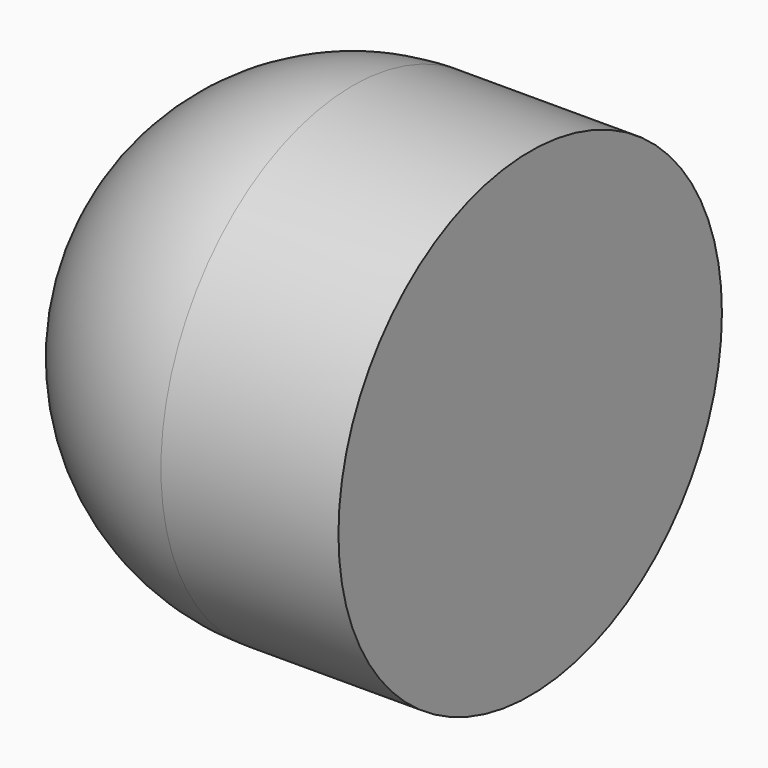
from build123d import *

# Parameters (mm, degrees)
F0_R     = 13.5
F1_DEPTH = 10
F3_ANGLE = 180


with BuildPart() as f1:
    # F0 (on Right) → F1 (new body)
    with BuildSketch(Plane.YZ):
        Circle(F0_R)
    extrude(amount=F1_DEPTH)

    # F2 (on face) → F3 (revolve)
    with BuildSketch(Plane(origin=(0, 0, 0), x_dir=(0, -1, 0), z_dir=(-1, 0, 0))):
        with BuildLine():
            ThreePointArc((0, -13.5), (13.5, 0), (0, 13.5))
            Line((0, 13.5), (0, -13.5))
        make_face()
    revolve(axis=Axis((0, 0, 0), (0, 0, -1)), revolution_arc=F3_ANGLE)


solid = f1.part
